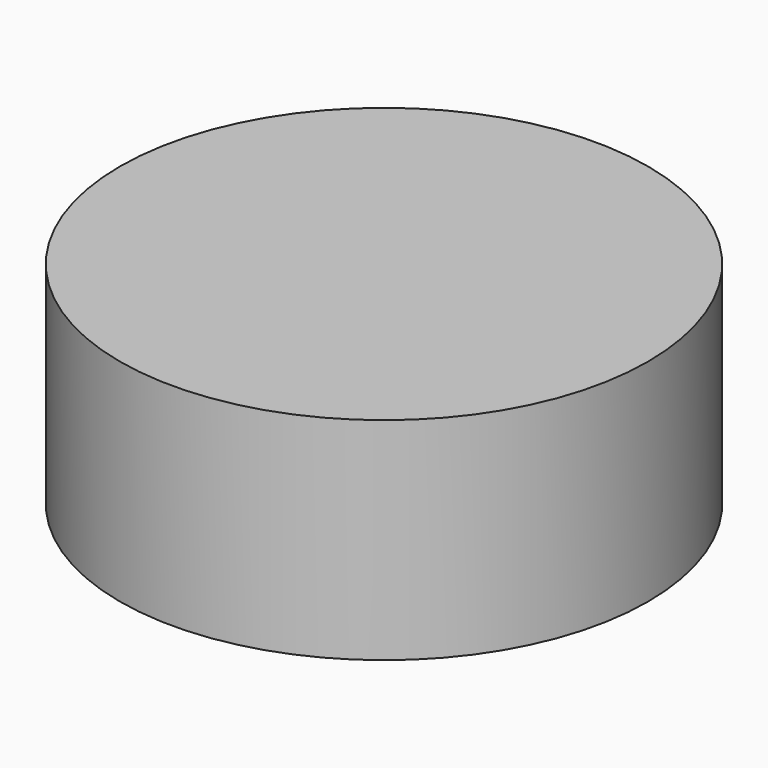
from build123d import *

# Parameters (mm, degrees)
SKETCH_R  = 4.75
PAD_DEPTH = 3.8


with BuildPart() as part:
    # Sketch → Pad (new body)
    with BuildSketch(Plane.XY):
        Circle(SKETCH_R)
    extrude(amount=PAD_DEPTH)


solid = part.part
